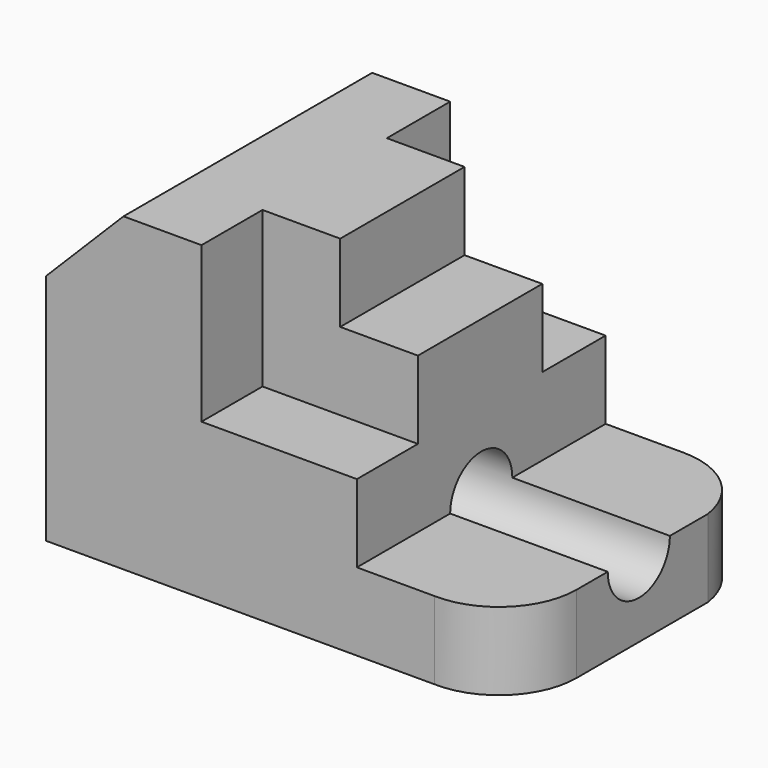
from build123d import *

# Parameters (mm, degrees)
F0_W      = 63.5
F0_H      = 12.7
F1_DEPTH  = 50.8
F2_W      = 50.7968105376
F2_H      = 12.6984052688
F3_DEPTH  = 50.8
F5_DEPTH  = 50.8
F6_W      = 25.3984052688
F6_H      = 25.4
F7_DEPTH  = 12.7
F8_W      = 12.6992026344
F8_H      = 25.4
F9_DEPTH  = 12.7
F10_W     = 13.0463411808
F10_H     = 26.8100267276
F11_DEPTH = 12.7
F13_DEPTH = 12.7
F15_DEPTH = 12.7
F16_R     = 6.3492026344
F17_DEPTH = 38.1


with BuildPart() as f1:
    # F0 (on Front) → F1 (new body)
    with BuildSketch(Plane.XZ):
        with Locations((31.75, 6.35)):
            Rectangle(F0_W, F0_H)
    extrude(amount=F1_DEPTH)

    # F2 (on face) → F3 (join)
    with BuildSketch(Plane.XZ.offset(50.8)):
        with Locations((25.3984052688, 19.0492026344)):
            Rectangle(F2_W, F2_H)
    extrude(amount=-F3_DEPTH)

    # F4 (on face) → F5 (join)
    with BuildSketch(Plane.XZ.offset(50.8)):
        Polygon((0, 38.0984052688), (0, 25.3984052688), (25.3984052688, 25.3984052688), (25.3984052688, 50.7984052688), (12.6490090042, 50.7984052688), align=None)
    extrude(amount=-F5_DEPTH)

    # F6 (on face) → F7 (join)
    with BuildSketch(Plane.XY.offset(25.3984052688)):
        with Locations((38.0976079032, -25.6369028568)):
            Rectangle(F6_W, F6_H)
    extrude(amount=F7_DEPTH)

    # F8 (on face) → F9 (join)
    with BuildSketch(Plane.XY.offset(38.0984052688)):
        with Locations((31.748006586, -25.6369028568)):
            Rectangle(F8_W, F8_H)
    extrude(amount=F9_DEPTH)

    # F10 (on face) → F11 (join)
    with BuildSketch(Plane.XY.offset(12.7)):
        with Locations((70.0231705904, -24.706099648)):
            Rectangle(F10_W, F10_H)
    extrude(amount=-F11_DEPTH)

    # F12 (on face) → F13 (join)
    with BuildSketch(Plane.XY.offset(12.7)):
        with BuildLine():
            Line((63.5, -11.3010862842), (76.5463411808, -11.3010862842))
            ThreePointArc((76.5463411808, -11.3010862842), (72.1302023355, -3.2181172377), (63.5, 0))
            Line((63.5, 0), (63.5, -11.3010862842))
        make_face()
    extrude(amount=-F13_DEPTH)

    # F14 (on face) → F15 (join)
    with BuildSketch(Plane.XY.offset(12.7)):
        with BuildLine():
            Line((63.5, -38.1111130118), (63.5, -50.8))
            ThreePointArc((63.5, -50.8), (72.7010118925, -47.2088343378), (76.5463411808, -38.1111130118))
            Line((76.5463411808, -38.1111130118), (63.5, -38.1111130118))
        make_face()
    extrude(amount=-F15_DEPTH)

    # F16 (on face) → F17 (cut, symmetric)
    with BuildSketch(Plane.YZ.offset(50.7968105376)):
        with Locations((-25.4, 12.7)):
            Circle(F16_R)
    extrude(amount=F17_DEPTH, both=True, mode=Mode.SUBTRACT)


solid = f1.part
